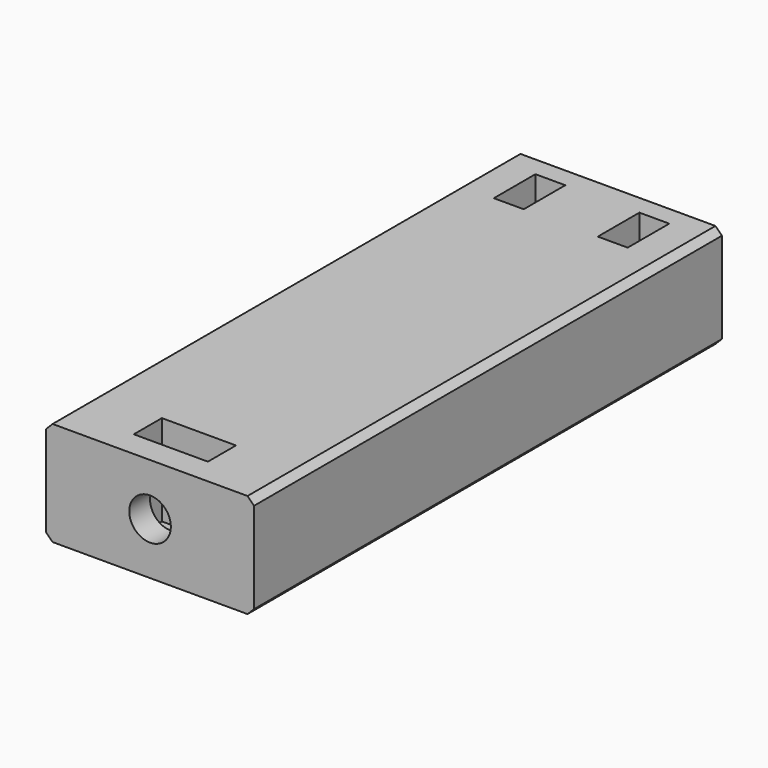
from build123d import *

# Parameters (mm, degrees)
F0_W      = 8
F0_H      = 8
F0_R      = 1.6
F1_DEPTH  = 35
F2_W      = 5.7
F2_H      = 2.7
F3_DEPTH  = 7
F4_W      = 2.3
F4_H      = 4
F5_DEPTH  = 8.001
F6_SIZE   = 0.5
F7_W      = 16
F7_H      = 8
F7_R      = 1.6
F8_DEPTH  = 45
F9_W      = 5.7
F9_H      = 2.7
F10_DEPTH = 7
F11_SIZE  = 0.5
F12_W     = 2.3
F12_H     = 4
F13_DEPTH = 12.001


with BuildPart() as f1:
    # F0 (on Front) → F1 (new body)
    with BuildSketch(Plane.XZ):
        Rectangle(F0_W, F0_H)
        Circle(F0_R, mode=Mode.SUBTRACT)
    extrude(amount=F1_DEPTH)

    # F2 (on face) → F3 (cut)
    with BuildSketch(Plane.XY.offset(4)):
        with Locations((0, -31.65)):
            Rectangle(F2_W, F2_H)
    extrude(amount=-F3_DEPTH, mode=Mode.SUBTRACT)

    # F4 (on face) → F5 (cut, through all)
    with BuildSketch(Plane.XY.offset(4)):
        with Locations((0, -3.5)):
            Rectangle(F4_W, F4_H)
    extrude(amount=-F5_DEPTH, mode=Mode.SUBTRACT)

    # F6
    f6_edges = [f1.edges().sort_by_distance(p)[0] for p in [
        (-4, -17.5, 4),
        (4, -17.5, 4),
        (-4, -17.5, -4),
        (4, -17.5, -4),
    ]]
    chamfer(f6_edges, length=F6_SIZE)


with BuildPart() as f8:
    # F7 (on Front) → F8 (new body)
    with BuildSketch(Plane.XZ):
        with Locations((8, 4)):
            Rectangle(F7_W, F7_H)
        with Locations((8, 4)):
            Circle(F7_R, mode=Mode.SUBTRACT)
    extrude(amount=F8_DEPTH)

    # F9 (on face) → F10 (cut)
    with BuildSketch(Plane.XY.offset(8)):
        with Locations((8, -41.65)):
            Rectangle(F9_W, F9_H)
    extrude(amount=-F10_DEPTH, mode=Mode.SUBTRACT)

    # F11
    f11_edges = [f8.edges().sort_by_distance(p)[0] for p in [
        (0, -22.5, 8),
        (16, -22.5, 8),
        (16, -22.5, 0),
        (0, -22.5, 0),
    ]]
    chamfer(f11_edges, length=F11_SIZE)

    # F12 (on face) → F13 (cut, through all)
    with BuildSketch(Plane.XY.offset(8)):
        with Locations((4, -3.5)):
            Rectangle(F12_W, F12_H)
        with Locations((12, -3.5)):
            Rectangle(F12_W, F12_H)
    extrude(amount=-F13_DEPTH, mode=Mode.SUBTRACT)


solid = Compound([f1.part, f8.part])
